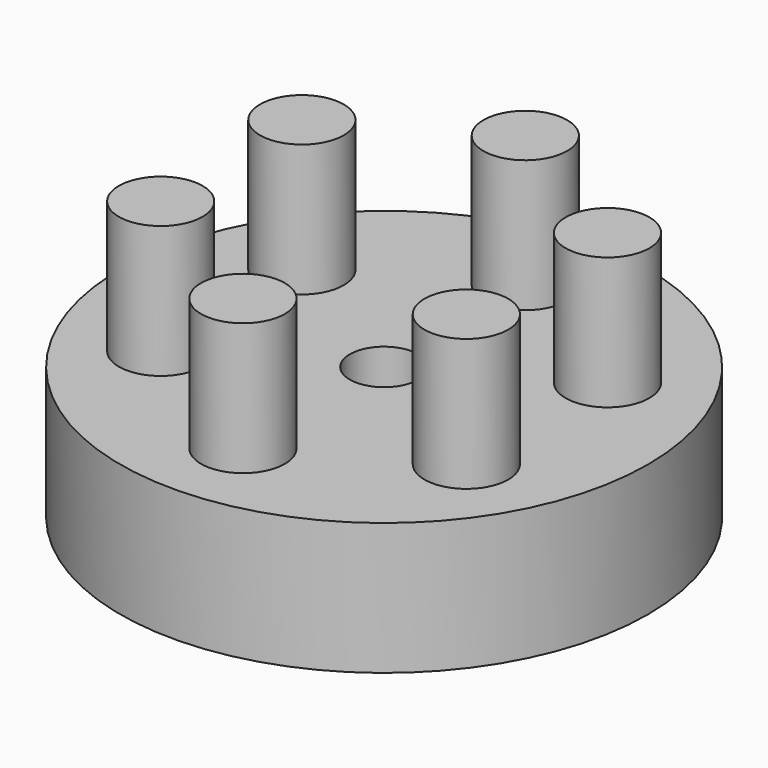
from build123d import *

# Parameters (mm, degrees)
F0_R     = 25.4
F0_R_2   = 2.8345599267
F0_R_3   = 3.302
F1_DEPTH = 6.35
F2_DEPTH = 6.35
F3_R     = 4.0292814374
F4_DEPTH = 12.7


with BuildPart() as f1:
    # F0 (on Top) → F1 (new body)
    with BuildSketch(Plane.XY):
        Circle(F0_R)
        with Locations((-13.4316211013, -13.4316211013)):
            Circle(F0_R_2, mode=Mode.SUBTRACT)
        with Locations((0, -18.9951807261)):
            Circle(F0_R_2, mode=Mode.SUBTRACT)
        with Locations((-18.9951807261, 0)):
            Circle(F0_R_2, mode=Mode.SUBTRACT)
        Circle(F0_R_3, mode=Mode.SUBTRACT)
        with Locations((13.4316211013, -13.4316211013)):
            Circle(F0_R_2, mode=Mode.SUBTRACT)
        with Locations((18.9951807261, 0)):
            Circle(F0_R_2, mode=Mode.SUBTRACT)
        with Locations((-13.4316211013, 13.4316211013)):
            Circle(F0_R_2, mode=Mode.SUBTRACT)
        with Locations((0, 18.9951807261)):
            Circle(F0_R_2, mode=Mode.SUBTRACT)
        with Locations((13.4316211013, 13.4316211013)):
            Circle(F0_R_2, mode=Mode.SUBTRACT)
        with Locations((-18.9951807261, 0)):
            Circle(F0_R_2)
        with Locations((-13.4316211013, 13.4316211013)):
            Circle(F0_R_2)
        with Locations((0, 18.9951807261)):
            Circle(F0_R_2)
        with Locations((13.4316211013, 13.4316211013)):
            Circle(F0_R_2)
        with Locations((18.9951807261, 0)):
            Circle(F0_R_2)
        with Locations((0, -18.9951807261)):
            Circle(F0_R_2)
        with Locations((13.4316211013, -13.4316211013)):
            Circle(F0_R_2)
        with Locations((-13.4316211013, -13.4316211013)):
            Circle(F0_R_2)
    extrude(amount=F1_DEPTH)

    # F2 (add): a face of the model
    f2_faces = [f1.faces().sort_by_distance(p)[0] for p in [
        (-24.6815795103, 0, 6.35),
    ]]
    extrude(f2_faces, amount=F2_DEPTH)

    # F3 (on face) → F4 (join)
    with BuildSketch(Plane.XY.offset(12.7)):
        with Locations((0, 16.9805400074)):
            Circle(F3_R)
        with Locations((-14.7055790163, 8.4902700037)):
            Circle(F3_R)
        with Locations((-14.7055790163, -8.4902700037)):
            Circle(F3_R)
        with Locations((0, -16.9805400074)):
            Circle(F3_R)
        with Locations((14.7055790163, -8.4902700037)):
            Circle(F3_R)
        with Locations((14.7055790163, 8.4902700037)):
            Circle(F3_R)
    extrude(amount=F4_DEPTH)


solid = f1.part
